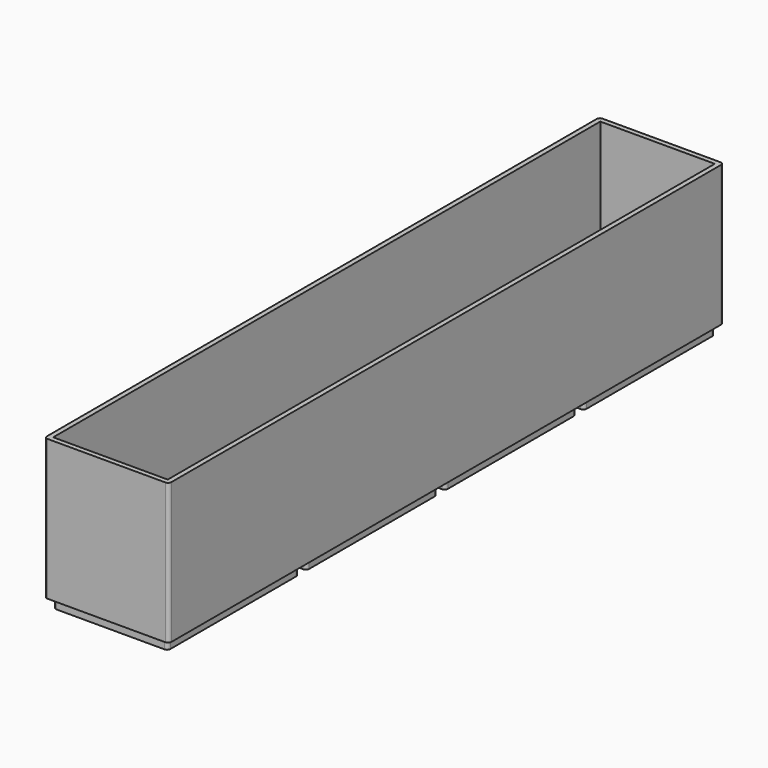
from build123d import *

# Parameters (mm, degrees)
F0_W     = 35
F0_H     = 50
F1_DEPTH = 3
F0_H_2   = 1.5
F2_DEPTH = 1.5
F3_DEPTH = 43
F4_R     = 1


with BuildPart() as f1:
    # F0 (on Top) → F1 (new body)
    with BuildSketch(Plane.XY):
        with Locations((19, 185.5)):
            Rectangle(F0_W, F0_H)
        with Locations((19, 132.5)):
            Rectangle(F0_W, F0_H)
        with Locations((19, 79.5)):
            Rectangle(F0_W, F0_H)
        with Locations((19, 26.5)):
            Rectangle(F0_W, F0_H)
    extrude(amount=-F1_DEPTH)

    # F0 (on Top) → F2 (join)
    with BuildSketch(Plane.XY):
        with Locations((19, 185.5)):
            Rectangle(F0_W, F0_H)
        Polygon((0, 212), (0, 159), (1.5, 159), (1.5, 160.5), (1.5, 210.5), (36.5, 210.5), (36.5, 160.5), (36.5, 159), (38, 159), (38, 212), align=None)
        with Locations((19, 132.5)):
            Rectangle(F0_W, F0_H)
        Polygon((36.5, 106), (38, 106), (38, 159), (36.5, 159), (36.5, 157.5), (36.5, 107.5), align=None)
        with Locations((19, 158.25)):
            Rectangle(F0_W, F0_H_2)
        with Locations((19, 159.75)):
            Rectangle(F0_W, F0_H_2)
        Polygon((0, 159), (0, 106), (1.5, 106), (1.5, 107.5), (1.5, 157.5), (1.5, 159), align=None)
        with Locations((19, 105.25)):
            Rectangle(F0_W, F0_H_2)
        with Locations((19, 106.75)):
            Rectangle(F0_W, F0_H_2)
        Polygon((36.5, 53), (38, 53), (38, 106), (36.5, 106), (36.5, 104.5), (36.5, 54.5), align=None)
        with Locations((19, 79.5)):
            Rectangle(F0_W, F0_H)
        Polygon((0, 106), (0, 53), (1.5, 53), (1.5, 54.5), (1.5, 104.5), (1.5, 106), align=None)
        Polygon((0, 53), (0, 0), (38, 0), (38, 53), (36.5, 53), (36.5, 51.5), (36.5, 1.5), (1.5, 1.5), (1.5, 51.5), (1.5, 53), align=None)
        with Locations((19, 26.5)):
            Rectangle(F0_W, F0_H)
        with Locations((19, 52.25)):
            Rectangle(F0_W, F0_H_2)
        with Locations((19, 53.75)):
            Rectangle(F0_W, F0_H_2)
    extrude(amount=F2_DEPTH)

    # F0 (on Top) → F3 (join)
    with BuildSketch(Plane.XY):
        Polygon((0, 53), (0, 0), (38, 0), (38, 53), (36.5, 53), (36.5, 51.5), (36.5, 1.5), (1.5, 1.5), (1.5, 51.5), (1.5, 53), align=None)
        Polygon((0, 106), (0, 53), (1.5, 53), (1.5, 54.5), (1.5, 104.5), (1.5, 106), align=None)
        Polygon((36.5, 53), (38, 53), (38, 106), (36.5, 106), (36.5, 104.5), (36.5, 54.5), align=None)
        Polygon((36.5, 106), (38, 106), (38, 159), (36.5, 159), (36.5, 157.5), (36.5, 107.5), align=None)
        Polygon((0, 159), (0, 106), (1.5, 106), (1.5, 107.5), (1.5, 157.5), (1.5, 159), align=None)
        Polygon((0, 212), (0, 159), (1.5, 159), (1.5, 160.5), (1.5, 210.5), (36.5, 210.5), (36.5, 160.5), (36.5, 159), (38, 159), (38, 212), align=None)
    extrude(amount=F3_DEPTH)

    # F4
    f4_edges = [f1.edges().sort_by_distance(p)[0] for p in [
        (38, 212, 21.5),
        (0, 212, 21.5),
        (1.5, 210.5, -1.5),
        (36.5, 210.5, -1.5),
        (1.5, 160.5, -1.5),
        (36.5, 160.5, -1.5),
        (36.5, 157.5, -1.5),
        (1.5, 157.5, -1.5),
        (1.5, 107.5, -1.5),
        (36.5, 107.5, -1.5),
        (36.5, 104.5, -1.5),
        (1.5, 104.5, -1.5),
        (1.5, 54.5, -1.5),
        (36.5, 54.5, -1.5),
        (36.5, 51.5, -1.5),
        (1.5, 51.5, -1.5),
        (1.5, 1.5, -1.5),
        (36.5, 1.5, -1.5),
        (38, 0, 21.5),
        (0, 0, 21.5),
    ]]
    fillet(f4_edges, radius=F4_R)


solid = f1.part
